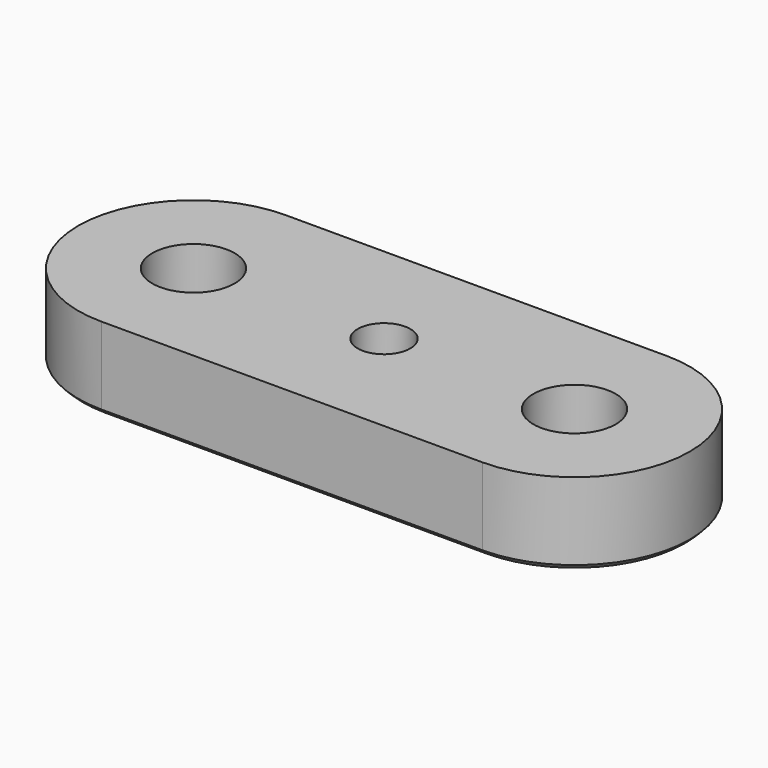
from build123d import *

# Parameters (mm, degrees)
SKETCH_R        = 2.5
SKETCH_R_2      = 1.6
PAD_DEPTH       = 5
POCKET_DEPTH    = 2.5
SKETCH002_R     = 1.6
PAD001_DEPTH    = 0.3
CHAMFER_SIZE    = 0.3
CHAMFER001_SIZE = 0.3


with BuildPart() as part:
    # Sketch → Pad (new body)
    with BuildSketch(Plane.XY):
        with BuildLine():
            ThreePointArc((-11.575, 7), (-18.575, 0), (-11.575, -7))
            Line((-11.575, -7), (11.575, -7))
            ThreePointArc((11.575, -7), (18.575, 0), (11.575, 7))
            Line((-11.575, 7), (11.575, 7))
        make_face()
        with Locations((-11.575, 0)):
            Circle(SKETCH_R, mode=Mode.SUBTRACT)
        with Locations((11.575, 0)):
            Circle(SKETCH_R, mode=Mode.SUBTRACT)
        Circle(SKETCH_R_2, mode=Mode.SUBTRACT)
    extrude(amount=PAD_DEPTH)

    # Sketch001 → Pocket (cut)
    with BuildSketch(Plane(origin=(0, 0, 0), x_dir=(1, 0, 0), z_dir=(0, 0, -1))):
        Polygon((1.602147, 2.775), (-1.602147, 2.775), (-3.204294, 0), (-1.602147, -2.775), (1.602147, -2.775), (3.204294, 0), align=None)
    extrude(amount=-POCKET_DEPTH, mode=Mode.SUBTRACT)

    # Sketch002 → Pad001 (new body)
    with BuildSketch(Plane(origin=(0, 0, 2.5), x_dir=(1, 0, 0), z_dir=(0, 0, -1))):
        Circle(SKETCH002_R)
    extrude(amount=-PAD001_DEPTH)

    # Chamfer
    chamfer_edges = [part.edges().sort_by_distance(p)[0] for p in [
        (-14.075, 0, 0),
        (9.075, 0, 0),
        (2.40322, -1.3875, 0),
        (0, -2.775, 0),
        (-2.40322, -1.3875, 0),
        (-2.40322, 1.3875, 0),
        (0, 2.775, 0),
        (2.40322, 1.3875, 0),
    ]]
    chamfer(chamfer_edges, length=CHAMFER_SIZE)

    # Chamfer001
    chamfer001_edges = [part.edges().sort_by_distance(p)[0] for p in [
        (0, 7, 0),
    ]]
    chamfer(chamfer001_edges, length=CHAMFER001_SIZE)


solid = part.part
